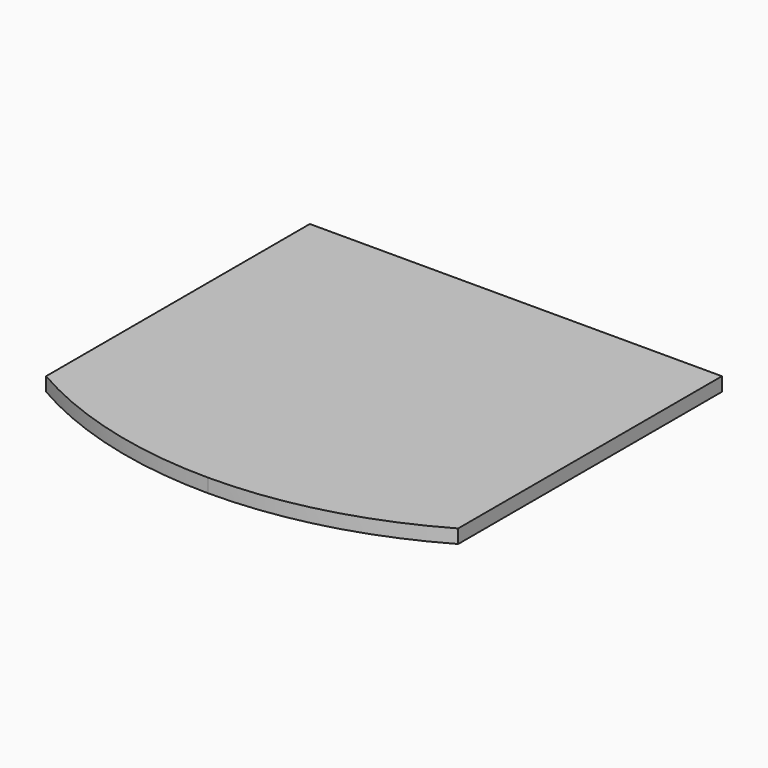
from build123d import *

# Parameters (mm, degrees)
F1_DEPTH = 19.05


with BuildPart() as f1:
    # F0 (on Top) → F1 (new body)
    with BuildSketch(Plane.XY):
        Polygon((285.75, 228.6), (-285.75, 228.6), (-285.75, -228.6), (0, -228.6), (285.75, -228.6), align=None)
        with BuildLine():
            Line((0, -228.6), (-285.75, -228.6))
            ThreePointArc((-285.75, -228.6), (-147.867764, -285.422865), (0, -304.8))
            Line((0, -304.8), (0, -228.6))
        make_face()
        with BuildLine():
            ThreePointArc((0, -304.8), (147.867764, -285.422865), (285.75, -228.6))
            Line((285.75, -228.6), (0, -228.6))
            Line((0, -228.6), (0, -304.8))
        make_face()
    extrude(amount=F1_DEPTH)


solid = f1.part
